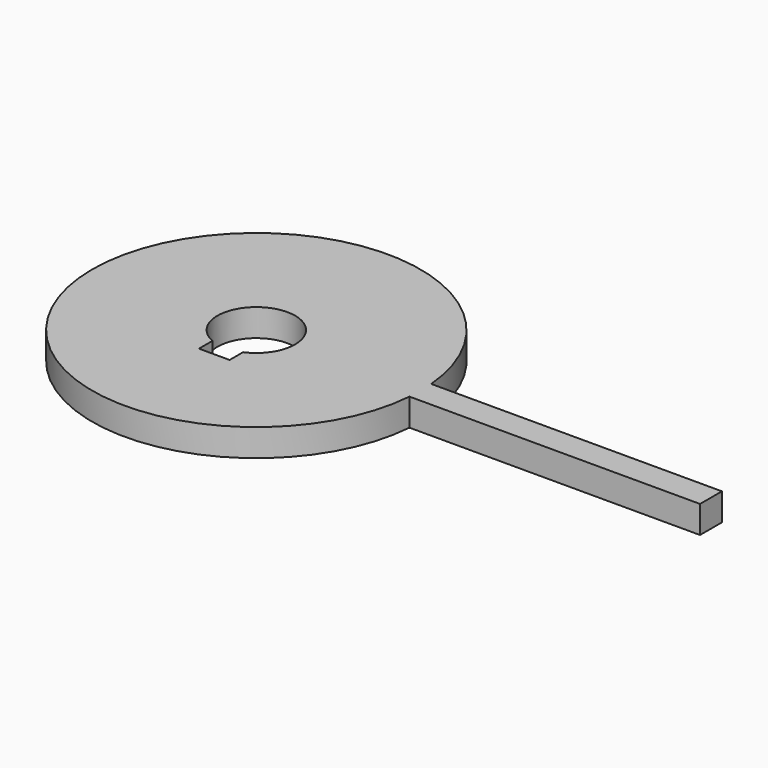
from build123d import *

# Parameters (mm, degrees)
F1_DEPTH = 5


with BuildPart() as f1:
    # F0 (on Top) → F1 (new body)
    with BuildSketch(Plane.XY):
        with BuildLine():
            ThreePointArc((29.892959, -2.5), (29.96573, -1.295459), (29.99, -0.088966))
            ThreePointArc((29.99, -0.088966), (29.962007, 1.206726), (29.878079, 2.5))
            ThreePointArc((29.878079, 2.5), (-30.009867, -0.178242), (29.892959, -2.5))
        make_face()
        with BuildLine():
            ThreePointArc((-2.81, -6.613535), (-3.917044, 5.839356), (7.09, -0.088966))
            ThreePointArc((7.09, -0.088966), (5.918322, -3.996011), (2.79, -6.613535))
            Line((2.79, -6.613535), (2.79, -9.688966))
            Line((2.79, -9.688966), (-0.01, -9.688966))
            Line((-0.01, -9.688966), (-2.81, -9.688966))
            Line((-2.81, -9.688966), (-2.81, -6.613535))
        make_face(mode=Mode.SUBTRACT)
        with BuildLine():
            ThreePointArc((29.878079, 2.5), (29.962007, 1.206726), (29.99, -0.088966))
            ThreePointArc((29.99, -0.088966), (29.96573, -1.295459), (29.892959, -2.5))
            Line((29.892959, -2.5), (82.989869, -2.5))
            Line((82.989869, -2.5), (82.989869, 0))
            Line((82.989869, 0), (82.989869, 2.5))
            Line((82.989869, 2.5), (29.878079, 2.5))
        make_face()
    extrude(amount=F1_DEPTH)


solid = f1.part
